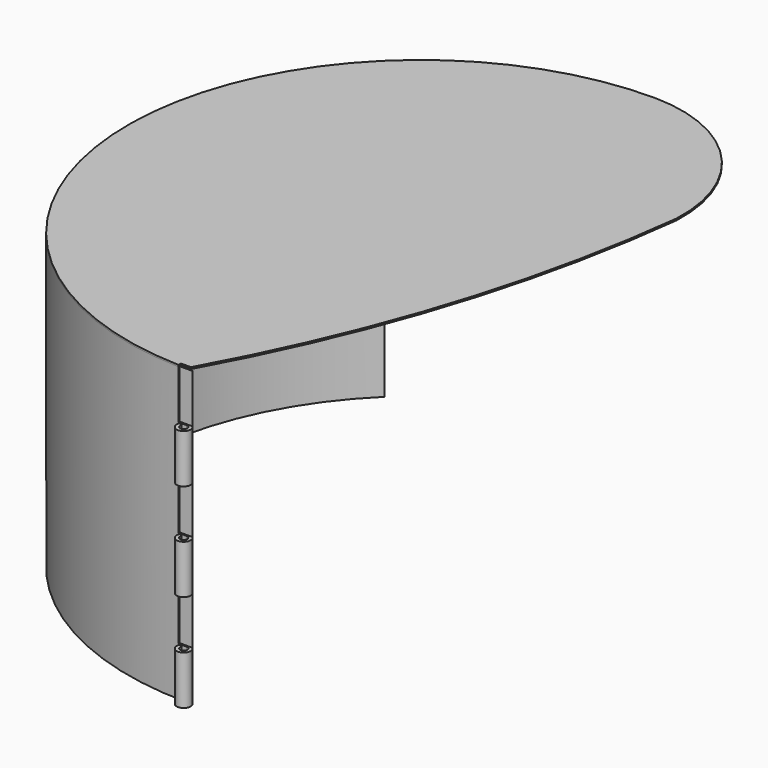
from build123d import *

# Parameters (mm, degrees)
F1_DEPTH = 0.889
F3_DEPTH = 152.4
F5_DEPTH = 4.318


with BuildPart() as f1:
    # F0 (on Top) → F1 (new body)
    with BuildSketch(Plane.XY):
        with BuildLine():
            ThreePointArc((73.319457, 74.928008), (53.181192, 129.299909), (0, 152.4))
            ThreePointArc((0, 152.4), (-152.4, 0), (0, -152.4))
            ThreePointArc((0, -152.4), (47.743568, -42.310835), (73.319457, 74.928008))
        make_face()
    extrude(amount=F1_DEPTH)

    # F2 (on face) → F3 (join)
    with BuildSketch(Plane(origin=(0, 0, 0), x_dir=(1, 0, 0), z_dir=(0, 0, -1))):
        with BuildLine():
            Line((0.001841, 152.457275), (0, 152.4))
            ThreePointArc((0, 152.4), (0.431777, 151.620209), (0.862429, 150.839797))
            ThreePointArc((0.862429, 150.839797), (1.545113, 157.643166), (-3.264828, 152.7835))
            Line((-3.264828, 152.7835), (-1.715005, 153.532948))
            ThreePointArc((-1.715005, 153.532948), (1.011435, 155.976592), (0.001841, 152.457275))
        make_face()
        with BuildLine():
            ThreePointArc((0.862429, 150.839797), (0.431777, 151.620209), (0, 152.4))
            ThreePointArc((0, 152.4), (-141.177371, 57.399564), (-106.345401, -109.162337))
            Line((-106.345401, -109.162337), (-105.184084, -107.970258))
            ThreePointArc((-105.184084, -107.970258), (-139.635681, 56.772747), (0, 150.735756))
            ThreePointArc((0, 150.735756), (0.434341, 150.76186), (0.862429, 150.839797))
        make_face()
    extrude(amount=F3_DEPTH)

    # F4 (on Right) → F5 (cut, symmetric)
    with BuildSketch(Plane.YZ):
        Polygon((-151.658967, 0), (-150.745168, 0), (-150.745168, 1.181528), (-161.246374, 1.181528), (-161.246374, 0), (-165.631473, 0), (-165.631473, -152.882606), (-161.246374, -152.882606), (-161.246374, -126.9674), (-151.658967, -126.9674), (-151.658967, -101.560883), (-161.246374, -101.560883), (-161.246374, -76.169804), (-151.658967, -76.169804), (-151.658967, -50.782207), (-161.246374, -50.782207), (-161.246374, -25.388533), (-151.658967, -25.388533), align=None)
    extrude(amount=F5_DEPTH, both=True, mode=Mode.SUBTRACT)


solid = f1.part
